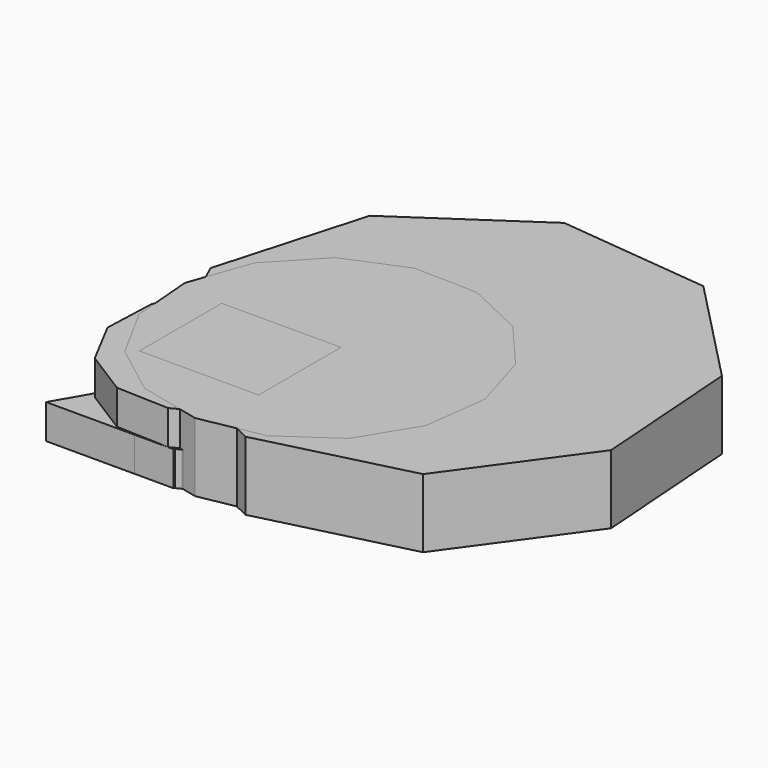
from build123d import *

# Parameters (mm, degrees)
PAD_DEPTH               = 10
PAD001_DEPTH            = 10
PAD002_DEPTH            = 10
PAD003_DEPTH            = 5
PAD004_DEPTH            = 5
PAD005_DEPTH            = 5
SKETCH006_W             = 17.330512
SKETCH006_H             = 14.988543
PAD006_DEPTH            = 10
PAD007_DEPTH            = 5
BODY006_PLACEMENT_ANGLE = 180
PAD008_DEPTH            = 5


with BuildPart() as body:
    # Sketch → Pad (new body)
    with BuildSketch(Plane.XY):
        Polygon((18.167238, -26.824047), (31.159077, -8.870737), (29.571237, 13.23329), (14.146687, 29.145313), (-7.897255, 31.41992), (-26.245984, 18.992798), (-32.313925, -2.321266), (-23.261822, -22.549184), (-3.325253, -32.226088), align=None)
    extrude(amount=PAD_DEPTH)


with BuildPart() as body_1:
    # Body placement: moved
    add(body.part.moved(Location((32.313925, 32.226088, 0))))


with BuildPart() as body001:
    # Sketch001 → Pad001 (new body)
    with BuildSketch(Plane.XY):
        Polygon((-14.146512, 4.385867), (-14.444172, -3.274984), (-10.871528, -10.058305), (-4.385867, -14.146512), (3.274984, -14.444172), (10.058305, -10.871528), (14.146512, -4.385867), (14.444172, 3.274984), (10.871528, 10.058305), (4.385867, 14.146512), (-3.274984, 14.444172), (-10.058305, 10.871528), align=None)
    extrude(amount=PAD001_DEPTH)


with BuildPart() as body001_1:
    # Body001 placement: moved
    add(body001.part.moved(Location((14.444172, 14.444172, 0))))


with BuildPart() as body002:
    # Sketch002 → Pad002 (new body)
    with BuildSketch(Plane.XY):
        Polygon((5.168737, 19.66088), (-4.125931, 19.882535), (-12.707188, 16.304545), (-19.091257, 9.545577), (-22.174274, 0.774318), (-21.423157, -8.492602), (-16.967783, -16.652849), (-9.578524, -22.29544), (-0.533051, -24.444722), (8.60459, -22.729063), (16.25442, -17.445117), (21.093714, -9.506527), (22.285712, -0.285945), (19.624308, 8.622305), (13.569683, 15.677905), align=None)
    extrude(amount=PAD002_DEPTH)


with BuildPart() as body002_1:
    # Body002 placement: moved
    add(body002.part.moved(Location((22.174274, 24.444722, 0))))


with BuildPart() as body003:
    # Sketch003 → Pad003 (new body)
    with BuildSketch(Plane.XY):
        Polygon((7.399518, 7.664609), (-10.337505, 2.575866), (2.937987, -10.240475), align=None)
    extrude(amount=PAD003_DEPTH)


with BuildPart() as body003_1:
    # Body003 placement: moved
    add(body003.part.moved(Location((10.337505, 10.240475, 0))))


with BuildPart() as body004:
    # Sketch004 → Pad004 (new body)
    with BuildSketch(Plane.XY):
        Polygon((0, 10.25955), (-8.885031, -5.129775), (8.885031, -5.129775), align=None)
    extrude(amount=PAD004_DEPTH)


with BuildPart() as body004_1:
    # Body004 placement: moved
    add(body004.part.moved(Location((8.885031, 5.129775, 0))))


with BuildPart() as body005:
    # Sketch005 → Pad005 (new body)
    with BuildSketch(Plane.XY):
        Polygon((8.917991, 0), (13.337694, 8.722222), (4.077364, 17.140703), (-8.024202, 17.140703), (-17.600224, 1.776977), (-4.762044, -10.850743), (0.920433, -10.850743), align=None)
    extrude(amount=PAD005_DEPTH)


with BuildPart() as body005_1:
    # Body005 placement: moved
    add(body005.part.moved(Location((17.600224, 10.850743, 0))))


with BuildPart() as body006:
    # Sketch006 → Pad006 (new body)
    with BuildSketch(Plane.XY):
        with Locations((-1.850273, 0.820157)):
            Rectangle(SKETCH006_W, SKETCH006_H)
    extrude(amount=PAD006_DEPTH)

    # Sketch007 → Pad007 (join)
    with BuildSketch(Plane.XY):
        Polygon((10.019646, 10.457861), (4.573891, 15.162398), (-2.314561, 17.24522), (-9.454634, 16.346186), (-15.611746, 12.620748), (-19.721276, 6.713068), (-21.072648, -0.355362), (-19.432198, -7.362347), (-15.083575, -13.096315), (-8.778695, -16.565812), (-1.60773, -17.170929), (5.189397, -14.807036), (10.437399, -9.882873), (13.22885, -3.24987), (13.081082, 3.945064), align=None)
    extrude(amount=PAD007_DEPTH)


with BuildPart() as body006_1:
    # Body006 placement: moved
    add(body006.part.moved(Location((13.22885, 17.24522, 0))).rotate(Axis((13.22885, 17.24522, 0), (0, 0, -1)), BODY006_PLACEMENT_ANGLE))


with BuildPart() as body007:
    # Sketch008 → Pad008 (new body)
    with BuildSketch(Plane.XY):
        Polygon((7.007695, -11.784118), (11.767051, -2.863674), (10.374145, 7.150596), (3.361021, 14.433582), (-6.593548, 16.203429), (-15.687253, 11.784118), (-20.446609, 2.863674), (-19.053703, -7.150596), (-12.040579, -14.433582), (-2.086011, -16.203429), align=None)
    extrude(amount=PAD008_DEPTH)


with BuildPart() as body007_1:
    # Body007 placement: moved
    add(body007.part.moved(Location((20.446609, 16.203429, 0))))


solid = Compound([body_1.part, body001_1.part, body002_1.part, body003_1.part, body004_1.part, body005_1.part, body006_1.part, body007_1.part])
